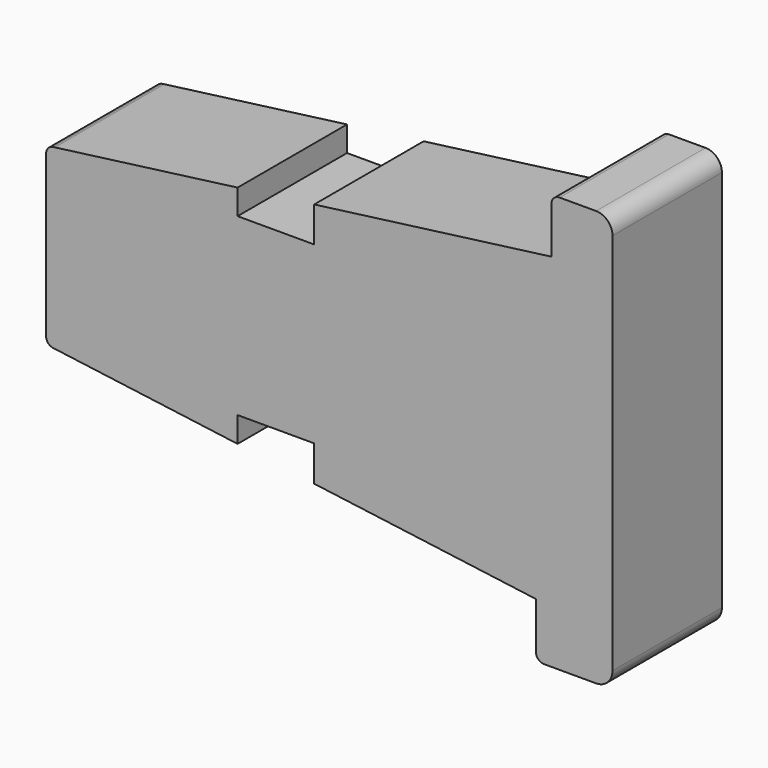
from build123d import *

# Parameters (mm, degrees)
F1_DEPTH = 25


with BuildPart() as f1:
    # F0 (on Front) → F1 (new body)
    with BuildSketch(Plane.XZ):
        with BuildLine():
            ThreePointArc((28.481623, 6.237598), (27.602944, 8.358919), (25.481623, 9.237598))
            Line((25.481623, 9.237598), (18.819672, 9.237598))
            ThreePointArc((18.819672, 9.237598), (17.759012, 8.798258), (17.319672, 7.737598))
            Line((17.319672, 7.737598), (17.319672, -0.762402))
            Line((17.319672, -0.762402), (-26.034861, -6.459927))
            Line((-26.034861, -6.459927), (-26.034861, -12.899362))
            Line((-26.034861, -12.899362), (-40.034861, -12.899362))
            Line((-40.034861, -12.899362), (-40.034861, -8.299765))
            Line((-40.034861, -8.299765), (-73.418925, -12.687001))
            Line((-73.418925, -12.687001), (-73.730306, -12.727921))
            ThreePointArc((-73.730306, -12.727921), (-74.662506, -13.225985), (-75.034861, -14.215134))
            Line((-75.034861, -14.215134), (-75.034861, -43.585033))
            ThreePointArc((-75.034861, -43.585033), (-74.663044, -44.573569), (-73.731923, -45.072032))
            Line((-73.731923, -45.072032), (-40.034861, -49.537685))
            Line((-40.034861, -49.537685), (-40.034861, -44.899362))
            Line((-40.034861, -44.899362), (-26.034861, -44.899362))
            Line((-26.034861, -44.899362), (-26.034861, -51.393015))
            Line((-26.034861, -51.393015), (14.481623, -56.762402))
            Line((14.481623, -56.762402), (14.481623, -65.262402))
            ThreePointArc((14.481623, -65.262402), (14.920963, -66.323062), (15.981623, -66.762402))
            Line((15.981623, -66.762402), (25.481623, -66.762402))
            ThreePointArc((25.481623, -66.762402), (27.602944, -65.883722), (28.481623, -63.762402))
            Line((28.481623, -63.762402), (28.481623, 6.237598))
        make_face()
    extrude(amount=F1_DEPTH)


solid = f1.part
